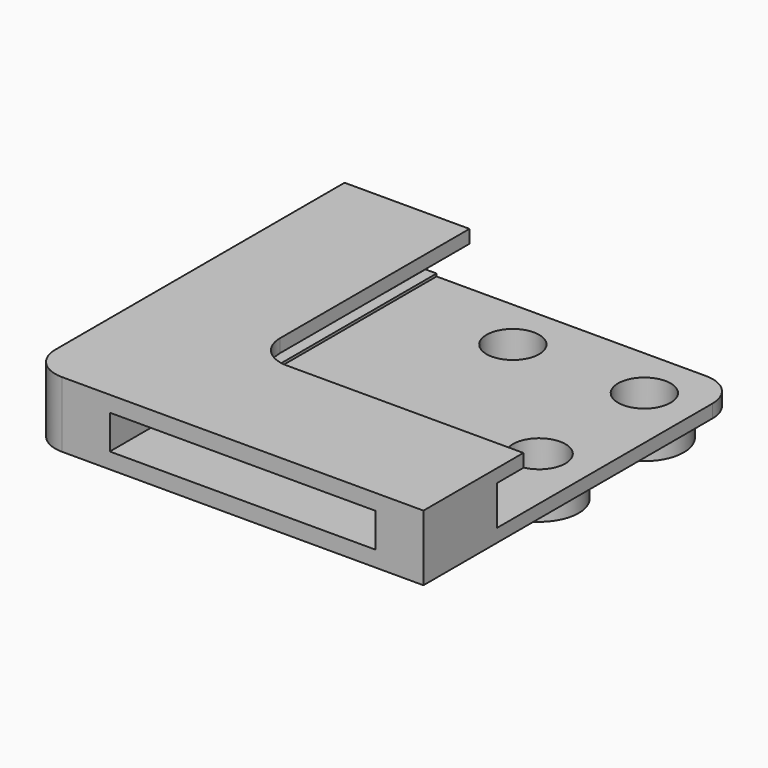
from build123d import *

# Parameters (mm, degrees)
F1_DEPTH  = 1.27
F3_DEPTH  = 3.81
F5_DEPTH  = 1.27
F6_W      = 25.654
F6_H      = 3.302
F7_DEPTH  = 38.101
F8_W      = 25.654
F8_H      = 3.302
F9_DEPTH  = 25.4
F10_R     = 3.81
F11_DEPTH = 2.54
F13_D     = 5.08


with BuildPart() as f1:
    # F0 (on Top) → F1 (new body)
    with BuildSketch(Plane.XY):
        with BuildLine():
            Line((0, 38.1), (0, 3.175))
            ThreePointArc((0, 3.175), (0.929936, 0.929936), (3.175, 0))
            Line((3.175, 0), (38.1, 0))
            Line((38.1, 0), (38.1, 34.925))
            ThreePointArc((38.1, 34.925), (37.170064, 37.170064), (34.925, 38.1))
            Line((34.925, 38.1), (0, 38.1))
        make_face()
    extrude(amount=F1_DEPTH)

    # F2 (on face) → F3 (join)
    with BuildSketch(Plane.XY.offset(1.27)):
        with BuildLine():
            Line((0, 38.1), (0, 3.175))
            ThreePointArc((0, 3.175), (0.929936, 0.929936), (3.175, 0))
            Line((3.175, 0), (38.1, 0))
            Line((38.1, 0), (38.1, 8.89))
            Line((38.1, 8.89), (8.89, 8.89))
            Line((8.89, 8.89), (8.89, 38.1))
            Line((8.89, 38.1), (0, 38.1))
        make_face()
    extrude(amount=F3_DEPTH)

    # F4 (on face) → F5 (join)
    with BuildSketch(Plane.XY.offset(5.08)):
        with BuildLine():
            Line((12.065, 38.1), (8.89, 38.1))
            Line((8.89, 38.1), (0, 38.1))
            Line((0, 38.1), (0, 3.175))
            ThreePointArc((0, 3.175), (0.929936, 0.929936), (3.175, 0))
            Line((3.175, 0), (38.1, 0))
            Line((38.1, 0), (38.1, 8.89))
            Line((38.1, 8.89), (38.1, 12.065))
            Line((38.1, 12.065), (15.24, 12.065))
            ThreePointArc((15.24, 12.065), (12.994936, 12.994936), (12.065, 15.24))
            Line((12.065, 15.24), (12.065, 38.1))
        make_face()
    extrude(amount=F5_DEPTH)

    # F6 (on face) → F7 (cut, through all)
    with BuildSketch(Plane.XZ):
        with Locations((20.6375, 3.175)):
            Rectangle(F6_W, F6_H)
    extrude(amount=-F7_DEPTH, mode=Mode.SUBTRACT)

    # F8 (on face) → F9 (cut)
    with BuildSketch(Plane(origin=(0, 0, 0), x_dir=(0, -1, 0), z_dir=(-1, 0, 0))):
        with Locations((-20.6375, 3.175)):
            Rectangle(F8_W, F8_H)
    extrude(amount=-F9_DEPTH, mode=Mode.SUBTRACT)

    # F10 (on face) → F11 (join)
    with BuildSketch(Plane(origin=(0, 0, 0), x_dir=(1, 0, 0), z_dir=(0, 0, -1))):
        with Locations((33.02, -33.02)):
            Circle(F10_R)
        with Locations((33.02, -20.32)):
            Circle(F10_R)
        with Locations((20.32, -33.02)):
            Circle(F10_R)
    extrude(amount=F11_DEPTH)

    # F13 (through all)
    with Locations(Plane(origin=(0, 0, -2.54), x_dir=(1, 0, 0), z_dir=(0, 0, -1))):
        with Locations((20.32, -33.02), (33.02, -33.02), (33.02, -20.32)):
            Hole(F13_D / 2)


solid = f1.part
